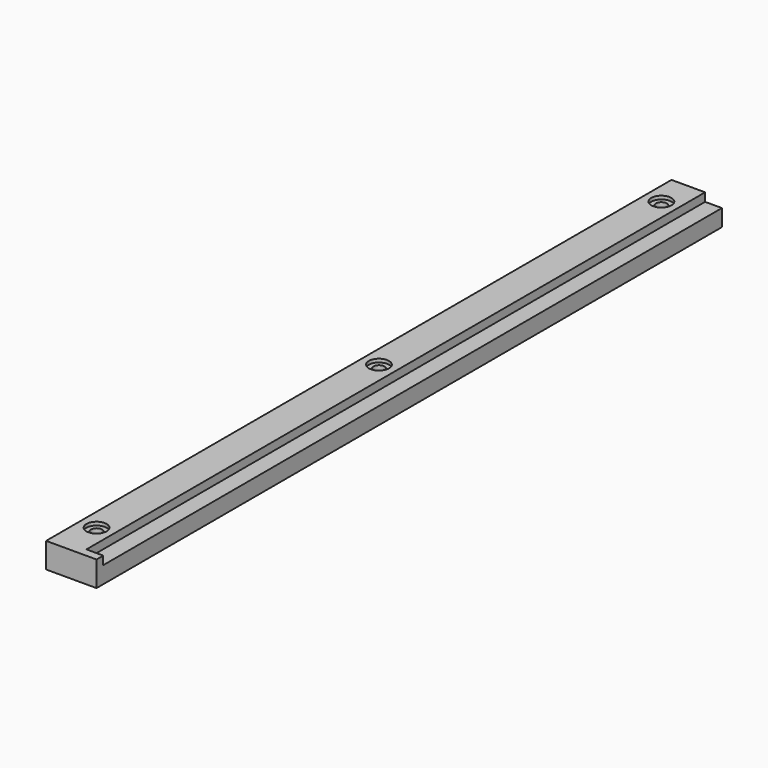
from build123d import *

# Parameters (mm, degrees)
F1_DEPTH       = 460
F3_D           = 6.5
F3_DEPTH       = 15
F3_CBORE_D     = 11
F3_CBORE_DEPTH = 5
F5_D           = 6.5
F5_DEPTH       = 15
F5_CBORE_D     = 12
F5_CBORE_DEPTH = 2
F6_W           = 30
F6_H           = 15
F7_DEPTH       = 5


with BuildPart() as f1:
    # F0 (on Front) → F1 (new body)
    with BuildSketch(Plane.XZ):
        Polygon((0, 15), (0, 0), (30, 0), (30, 10), (20, 10), (20, 15), align=None)
    extrude(amount=-F1_DEPTH)

    # F3
    with Locations(Plane(origin=(0, 0, 0), x_dir=(1, 0, 0), z_dir=(0, 0, -1))):
        with Locations((10, -440), (10, -230), (10, -20)):
            CounterBoreHole(F3_D / 2, F3_CBORE_D / 2, F3_CBORE_DEPTH, depth=F3_DEPTH)

    # F5
    with Locations(Plane.XY.offset(15)):
        with Locations((10, 440), (10, 230), (10, 20)):
            CounterBoreHole(F5_D / 2, F5_CBORE_D / 2, F5_CBORE_DEPTH, depth=F5_DEPTH)

    # F6 (on face) → F7 (join)
    with BuildSketch(Plane.XZ):
        with Locations((15, 7.5)):
            Rectangle(F6_W, F6_H)
    extrude(amount=F7_DEPTH)


solid = f1.part
